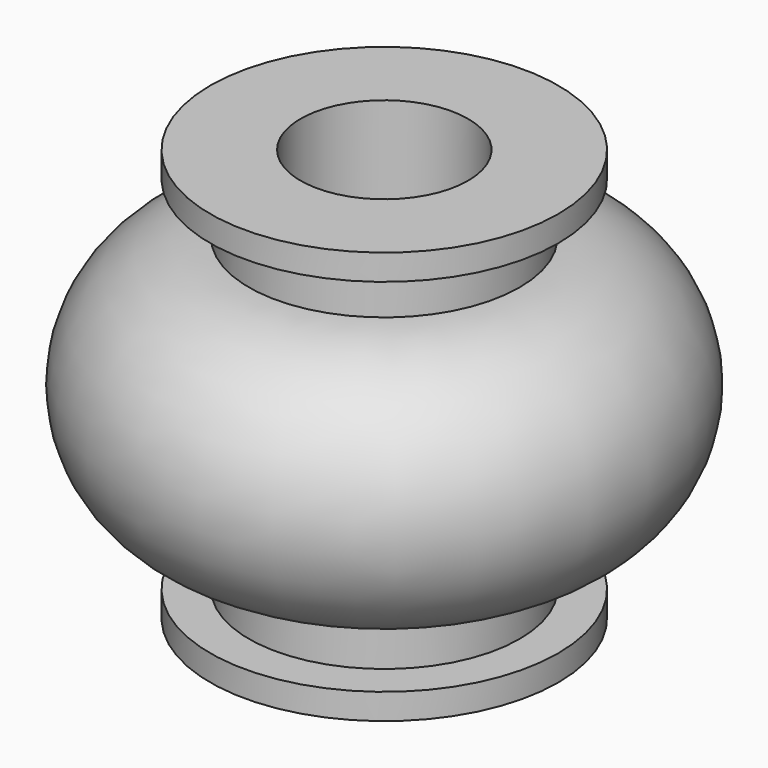
from build123d import *


with BuildPart() as f1:
    # F0 (on Front) → F1 (revolve)
    with BuildSketch(Plane.XZ):
        with BuildLine():
            Line((3.25, 16), (3.25, 0))
            Line((3.25, 0), (6.75, 0))
            Line((6.75, 0), (6.75, 1))
            Line((6.75, 1), (5.25, 1))
            Line((5.25, 1), (5.25, 3))
            ThreePointArc((5.25, 3), (10.245024, 8.002927), (5.25, 13.005855))
            Line((5.25, 13.005855), (5.25, 15))
            Line((5.25, 15), (6.75, 15))
            Line((6.75, 15), (6.75, 16))
            Line((6.75, 16), (3.25, 16))
        make_face()
    revolve(axis=Axis((0, 0, 15.346395), (0, 0, 1)))


solid = f1.part
